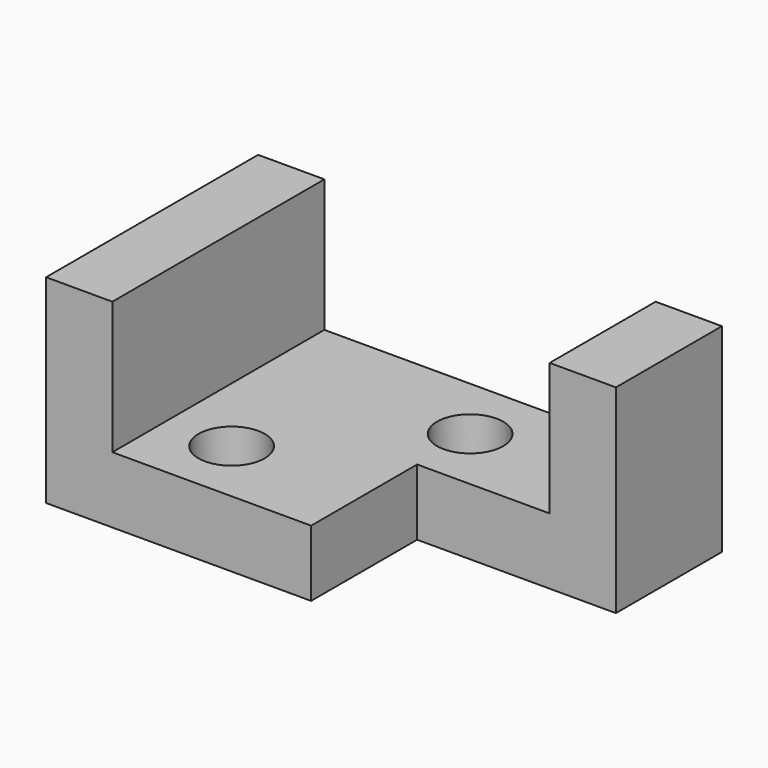
from build123d import *

# Parameters (mm, degrees)
F0_W      = 88.9
F0_H      = 38.1
F1_DEPTH  = 50.8
F2_W      = 63.5
F2_H      = 25.4
F3_DEPTH  = 25.4
F3_FACE_W = 63.5
F3_FACE_H = 25.4
F4_DEPTH  = 25.4
F5_W      = 25.4
F5_H      = 38.1
F6_DEPTH  = 38.1
F7_R      = 6.35
F8_DEPTH  = 12.701
F9_R      = 6.35
F10_DEPTH = 12.701


with BuildPart() as f1:
    # F0 (on Front) → F1 (new body)
    with BuildSketch(Plane.XZ):
        with Locations((3.609475, 10.182982)):
            Rectangle(F0_W, F0_H)
    extrude(amount=F1_DEPTH)

    # F2 (on face) → F3 (cut)
    with BuildSketch(Plane.XZ.offset(50.8)):
        with Locations((3.609475, 16.532982)):
            Rectangle(F2_W, F2_H)
    extrude(amount=-F3_DEPTH, mode=Mode.SUBTRACT)

    # F3_face (on face) → F4 (cut)
    with BuildSketch(Plane(origin=(3.609475, -25.4, 16.532982), x_dir=(1, 0, 0), z_dir=(0, -1, 0))):
        Rectangle(F3_FACE_W, F3_FACE_H)
    extrude(amount=-F4_DEPTH, mode=Mode.SUBTRACT)

    # F5 (on face) → F6 (cut)
    with BuildSketch(Plane.YZ.offset(48.059475)):
        with Locations((-38.1, 10.182982)):
            Rectangle(F5_W, F5_H)
    extrude(amount=-F6_DEPTH, mode=Mode.SUBTRACT)

    # F7 (on face) → F8 (cut, through all)
    with BuildSketch(Plane.XY.offset(3.832982)):
        with Locations((-15.440525, -38.1)):
            Circle(F7_R)
    extrude(amount=-F8_DEPTH, mode=Mode.SUBTRACT)

    # F9 (on face) → F10 (cut, through all)
    with BuildSketch(Plane.XY.offset(3.832982)):
        with Locations((9.959475, -12.7)):
            Circle(F9_R)
    extrude(amount=-F10_DEPTH, mode=Mode.SUBTRACT)


solid = f1.part
